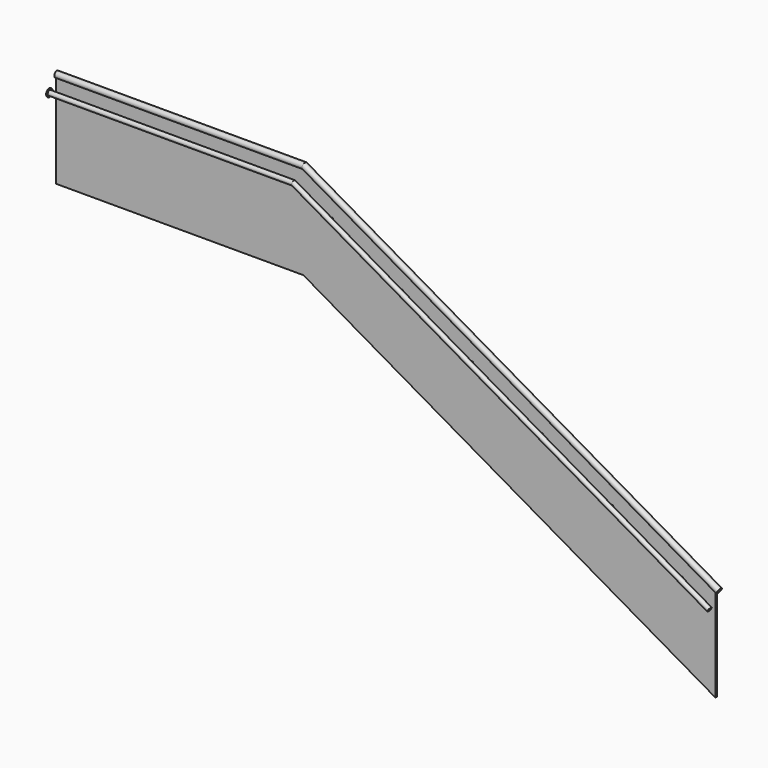
from build123d import *

# Parameters (mm, degrees)
F0_R      = 12
F1_DEPTH  = 9.5
F5_R      = 31.75
F6_DEPTH  = 2
F9_R      = 25
F9_R_2    = 23
F12_R     = 25
F13_DEPTH = 3
F14_R     = 40
F14_R_2   = 4
F14_R_3   = 25
F15_DEPTH = 5


with BuildPart() as f1:
    # F0 (on Front) → F1 (new body, symmetric)
    with BuildSketch(Plane.XZ):
        Polygon((0, 1000), (0, 0), (2600, 0), (6930.1270189222, -2500), (6930.1270189222, -1500), (2600, 1000), align=None)
        with Locations((6581.3785888182, -1506.4960969083)):
            Circle(F0_R, mode=Mode.SUBTRACT)
        with Locations((5845.2569956014, -1081.4960969083)):
            Circle(F0_R, mode=Mode.SUBTRACT)
        with Locations((550, 820)):
            Circle(F0_R, mode=Mode.SUBTRACT)
        with Locations((1350, 820)):
            Circle(F0_R, mode=Mode.SUBTRACT)
        with Locations((2150, 820)):
            Circle(F0_R, mode=Mode.SUBTRACT)
        with Locations((2900.7773830875, 618.5)):
            Circle(F0_R, mode=Mode.SUBTRACT)
        with Locations((5109.1354023847, -656.4960969083)):
            Circle(F0_R, mode=Mode.SUBTRACT)
        with Locations((4373.0138091679, -231.4960969083)):
            Circle(F0_R, mode=Mode.SUBTRACT)
        with Locations((3636.8922159511, 193.5039030917)):
            Circle(F0_R, mode=Mode.SUBTRACT)
    extrude(amount=F1_DEPTH, both=True)


with BuildPart() as f4:
    # F4: sweep along a path in F2
    with BuildLine(Plane.XZ) as f4_path:
        Line((0, 1000), (2600, 1000))
        Line((2600, 1000), (6956.1077810357, -1515))
    # F3 (on Right) → F4 (sweep)
    with BuildSketch(Plane.YZ):
        with BuildLine():
            Line((9.5, 1000), (9.5, 980))
            ThreePointArc((9.5, 980), (0, 1042.045420446), (-9.5, 980))
            Line((-9.5, 980), (-9.5, 1000))
            Line((-9.5, 1000), (9.5, 1000))
        make_face()
        with BuildLine():
            ThreePointArc((-11, 982.1163058396), (0, 1040.545420446), (11, 982.1163058396))
            Line((11, 982.1163058396), (11, 1001.5))
            Line((11, 1001.5), (-11, 1001.5))
            Line((-11, 1001.5), (-11, 982.1163058396))
        make_face(mode=Mode.SUBTRACT)
    sweep(path=f4_path.line, transition=Transition.RIGHT)

    # F5 (on face) → F6 (join)
    with BuildSketch(Plane(origin=(5873.0950791435, 0, -3390.8330249198), x_dir=(0, 1, 0), z_dir=(0.8660254038, 0, -0.5))):
        with Locations((0, 2176.3208242304)):
            Circle(F5_R)
    extrude(amount=-F6_DEPTH)


with BuildPart() as f10:
    # F10: sweep along a path in F8
    with BuildLine(Plane.XZ.offset(100)) as f10_path:
        Line((0, 880), (2567.8460969083, 880))
        Line((2567.8460969083, 880), (6941.2743860197, -1645))
    # F9 (on Right) → F10 (sweep)
    with BuildSketch(Plane.YZ):
        with Locations((-100, 880)):
            Circle(F9_R)
        with Locations((-100, 880)):
            Circle(F9_R_2, mode=Mode.SUBTRACT)
    sweep(path=f10_path.line, transition=Transition.RIGHT)

    # F12 (on face) → F13 (join)
    with BuildSketch(Plane(origin=(5918.2616841275, 0, -3416.9099764656), x_dir=(0, 1, 0), z_dir=(0.8660254038, 0, -0.5))):
        with Locations((-100, 2046.0254037844)):
            Circle(F12_R)
    extrude(amount=-F13_DEPTH)

    # F14 (on face) → F15 (join)
    with BuildSketch(Plane(origin=(0, 0, 0), x_dir=(0, -1, 0), z_dir=(-1, 0, 0))):
        with Locations((100, 880)):
            Circle(F14_R)
        with Locations((71.854174377, 863.75)):
            Circle(F14_R_2, mode=Mode.SUBTRACT)
        with Locations((128.145825623, 863.75)):
            Circle(F14_R_2, mode=Mode.SUBTRACT)
        with Locations((100, 880)):
            Circle(F14_R_3, mode=Mode.SUBTRACT)
        with Locations((100, 912.5)):
            Circle(F14_R_2, mode=Mode.SUBTRACT)
    extrude(amount=-F15_DEPTH)


solid = Compound([f1.part, f4.part, f10.part])
